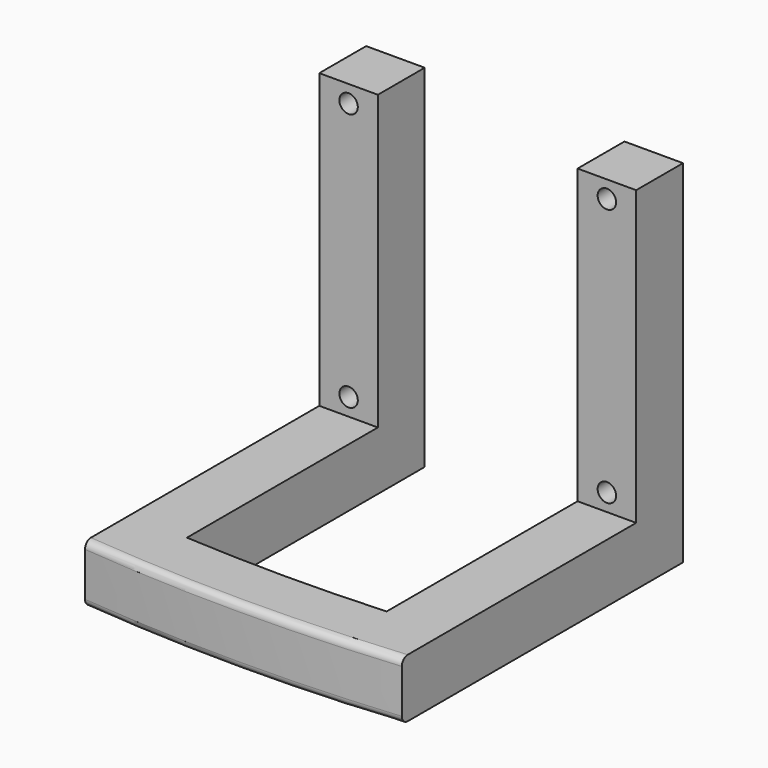
from build123d import *

# Parameters (mm, degrees)
F0_W     = 6.35
F0_H     = 6.341725
F2_DEPTH = 6.35
F1_W     = 6.35
F1_H     = 6.35
F3_DEPTH = 38.1
F5_D     = 2
F6_R     = 0.79375


with BuildPart() as f2:
    # F0 (on Top) → F2 (new body)
    with BuildSketch(Plane.XY):
        with BuildLine():
            Line((-10.825, 5.877161), (-10.825, 0))
            Line((-10.825, 0), (-17.175, 0))
            ThreePointArc((-17.175, 0), (0, -0.802674), (17.175, 0))
            Line((17.175, 0), (10.825, 0))
            Line((10.825, 0), (10.825, 5.877161))
            ThreePointArc((10.825, 5.877161), (0, 5.547326), (-10.825, 5.877161))
        make_face()
        Polygon((-17.175, 0), (-10.825, 0), (-10.825, 5.877161), (-10.825, 31.758275), (-17.175, 31.758275), align=None)
        with Locations((-14, 34.929137)):
            Rectangle(F0_W, F0_H)
        Polygon((10.825, 0), (17.175, 0), (17.175, 31.758275), (10.825, 31.758275), (10.825, 5.877161), align=None)
        with Locations((14, 34.929137)):
            Rectangle(F0_W, F0_H)
    extrude(amount=F2_DEPTH)

    # F1 (on Top) → F3 (join)
    with BuildSketch(Plane.XY):
        with Locations((-14, 34.925)):
            Rectangle(F1_W, F1_H)
        with Locations((14, 34.925)):
            Rectangle(F1_W, F1_H)
    extrude(amount=F3_DEPTH)

    # F5 (through all)
    with Locations(Plane.XZ.offset(-31.75)):
        with Locations((-14, 36.225), (-14, 8.225), (14, 8.225), (14, 36.225)):
            Hole(F5_D / 2)

    # F6
    f6_edges = [f2.edges().sort_by_distance(p)[0] for p in [
        (0, -0.802674, 6.35),
        (0, -0.802674, 0),
    ]]
    fillet(f6_edges, radius=F6_R)


solid = f2.part
